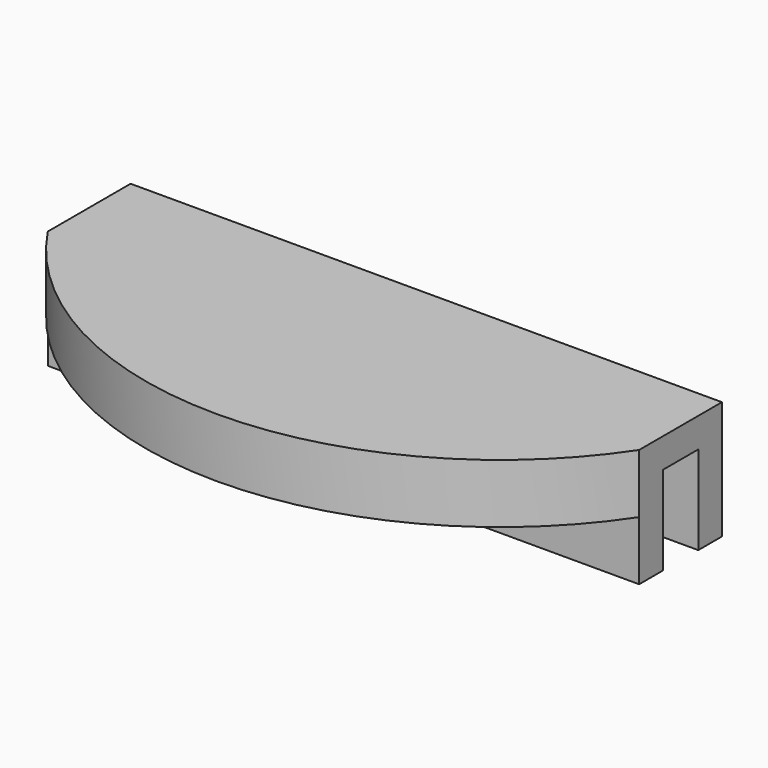
from build123d import *

# Parameters (mm, degrees)
F0_W     = 40
F0_H     = 2
F1_DEPTH = 8
F2_DEPTH = 3
F4_DEPTH = 1
F5_W     = 40
F5_H     = 2
F6_DEPTH = 3
F7_W     = 40
F7_H     = 6
F7_H_2   = 2
F8_DEPTH = 2


with BuildPart() as f1:
    # F0 (on Top) → F1 (new body)
    with BuildSketch(Plane.XY):
        with Locations((0.387097, 1)):
            Rectangle(F0_W, F0_H)
    extrude(amount=-F1_DEPTH)

    # F0 (on Top) → F2 (join)
    with BuildSketch(Plane.XY):
        with BuildLine():
            Line((20.387097, 0), (-19.612903, 0))
            ThreePointArc((-19.612903, 0), (0.387097, -10.733501), (20.387097, 0))
        make_face()
    extrude(amount=-F2_DEPTH)

    # F3 (on face) → F4 (join)
    with BuildSketch(Plane(origin=(0, 0, -3), x_dir=(1, 0, 0), z_dir=(0, 0, -1))):
        with BuildLine():
            Line((18.387097, 0), (20.387097, 0))
            ThreePointArc((20.387097, 0), (0.387097, 10.733501), (-19.612903, 0))
            Line((-19.612903, 0), (-17.612903, 0))
            ThreePointArc((-17.612903, 0), (0.387097, 9.187189), (18.387097, 0))
        make_face()
    extrude(amount=F4_DEPTH)

    # F5 (on face) → F6 (join)
    with BuildSketch(Plane(origin=(0, 2, 0), x_dir=(-1, 0, 0), z_dir=(0, 1, 0))):
        with Locations((-0.387097, -1)):
            Rectangle(F5_W, F5_H)
    extrude(amount=F6_DEPTH)

    # F7 (on face) → F8 (join)
    with BuildSketch(Plane(origin=(0, 5, 0), x_dir=(-1, 0, 0), z_dir=(0, 1, 0))):
        with Locations((-0.387097, -5)):
            Rectangle(F7_W, F7_H)
        with Locations((-0.387097, -1)):
            Rectangle(F7_W, F7_H_2)
    extrude(amount=F8_DEPTH)


solid = f1.part
